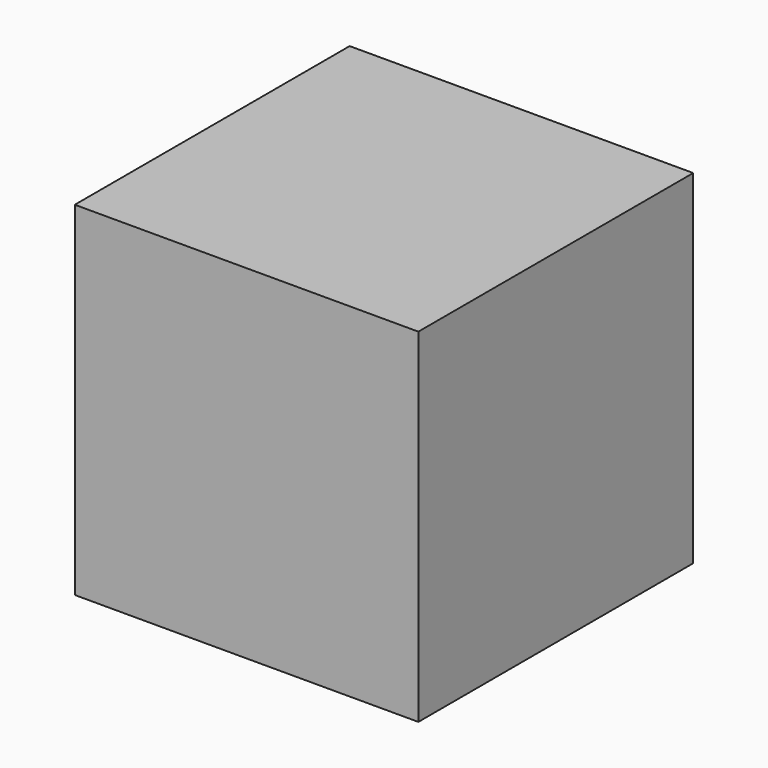
from build123d import *

# Parameters (mm, degrees)
BOX_W     = 10
BOX_H     = 10
BOX_DEPTH = 10


with BuildPart() as part:
    # Box → Box (join)
    with BuildSketch(Plane.XY):
        with Locations((5, 5)):
            Rectangle(BOX_W, BOX_H)
    extrude(amount=BOX_DEPTH)


solid = part.part
